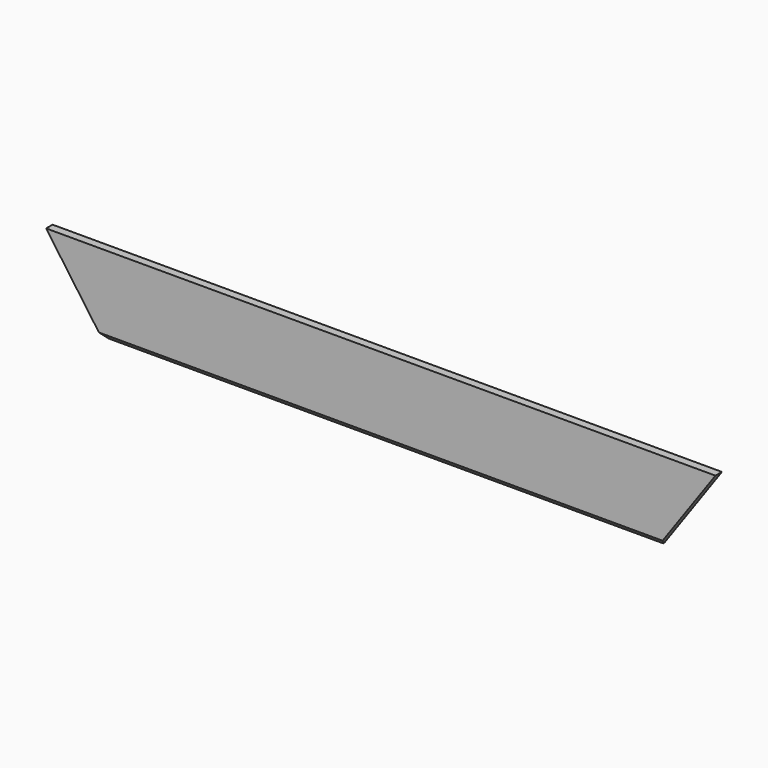
from build123d import *

# Parameters (mm, degrees)
F1_DEPTH = 10
F3_DEPTH = 674.322728
F6_DEPTH = 674.322728
F7_SIZE2 = 8
F7_SIZE  = 8


with BuildPart() as f1:
    # F0 (on Front) → F1 (new body)
    with BuildSketch(Plane.XZ):
        Polygon((-71, 100), (0, 0), (685, 0), (756, 100), align=None)
    extrude(amount=F1_DEPTH)

    # F2 (on face) → F3 (cut, through all)
    with BuildSketch(Plane(origin=(455.421847, 0, -323.349511), x_dir=(0, 1, 0), z_dir=(0.815383, 0, -0.578922))):
        Polygon((-10, 519.203269), (0, 519.203269), (0, 523.92737), (-15.178904, 523.92737), (-15.178904, 510.439725), (-10, 513.429767), align=None)
    extrude(amount=-F3_DEPTH, mode=Mode.SUBTRACT)

    # F5 (on face) → F6 (cut, through all)
    with BuildSketch(Plane(origin=(455.421847, 0, -323.349511), x_dir=(0, 1, 0), z_dir=(0.815383, 0, -0.578922))):
        Polygon((-196.915056, 209.646459), (-210.872175, 195.689339), (-196.915056, 195.689339), align=None)
    extrude(amount=-F6_DEPTH, mode=Mode.SUBTRACT)

    # F7
    f7_edges = [f1.edges().sort_by_distance(p)[0] for p in [
        (342.5, -10, 0),
    ]]
    chamfer(f7_edges, length=F7_SIZE, length2=F7_SIZE2)


solid = f1.part
